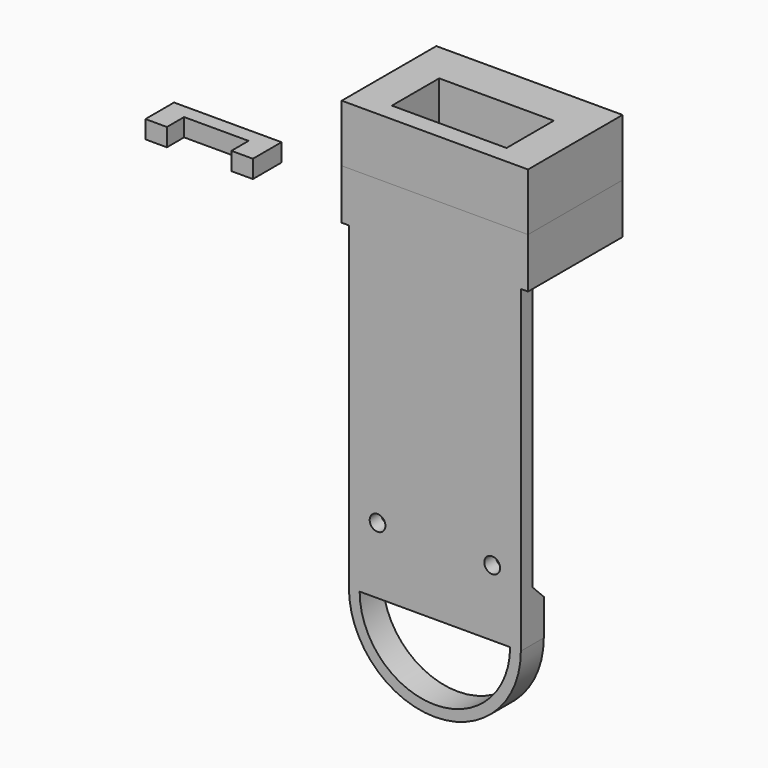
from build123d import *

# Parameters (mm, degrees)
BOX014_W          = 9
BOX014_H          = 3
BOX014_DEPTH      = 2.5
BOX013_W          = 15
BOX013_H          = 5
BOX013_DEPTH      = 2.5
CYLINDER001_R     = 1.1
CYLINDER001_DEPTH = 10
CYLINDER002_R     = 1.1
CYLINDER002_DEPTH = 10
BOX007_W          = 24
BOX007_H          = 2
BOX007_DEPTH      = 43.5
CYLINDER009_W     = 10.5
CYLINDER009_H     = 4
CYLINDER009_ANGLE = 180
CYLINDER008_W     = 12
CYLINDER008_H     = 4
CYLINDER008_ANGLE = 180
BOX011_W          = 24
BOX011_H          = 4
BOX011_DEPTH      = 7
CYLINDER006_R     = 2
CYLINDER006_DEPTH = 2
CYLINDER005_R     = 3.1
CYLINDER005_DEPTH = 2
BOX002_W          = 8
BOX002_H          = 3
BOX002_DEPTH      = 7
BOX003_W          = 10
BOX003_H          = 3
BOX003_DEPTH      = 7
FILLET001_R       = 1.45
BOX015_W          = 3.5
BOX015_H          = 3
BOX015_DEPTH      = 7
BOX_W             = 24
BOX_H             = 14.5
BOX_DEPTH         = 4
FILLET_R          = 2.5
BOX001_W          = 26
BOX001_H          = 16.5
BOX001_DEPTH      = 7
CHAMFER_SIZE      = 1.95
BOX012_W          = 22.5
BOX012_H          = 10.5
BOX012_DEPTH      = 1.25
BOX017_W          = 16
BOX017_H          = 8.25
BOX017_DEPTH      = 10
BOX004_W          = 22.5
BOX004_H          = 3
BOX004_DEPTH      = 3.5
CYLINDER007_R     = 1.4
CYLINDER007_DEPTH = 6
BOX005_W          = 26
BOX005_H          = 16.5
BOX005_DEPTH      = 8


with BuildPart() as obj1_support_inner:
    # Box014 → Box014 (new body)
    with BuildSketch(Plane(origin=(-27, 0, 0), x_dir=(1, 0, 0), z_dir=(0, 0, 1))):
        with Locations((4.5, 1.5)):
            Rectangle(BOX014_W, BOX014_H)
    extrude(amount=BOX014_DEPTH)


with BuildPart() as obj2:
    # Box013 → Box013 (new body)
    with BuildSketch(Plane(origin=(-30, 0, 0), x_dir=(1, 0, 0), z_dir=(0, 0, 1))):
        with Locations((7.5, 2.5)):
            Rectangle(BOX013_W, BOX013_H)
    extrude(amount=BOX013_DEPTH)

    # Cut007: cut obj1_support_inner)
    add(obj1_support_inner.part, mode=Mode.SUBTRACT)


with BuildPart() as cylinder001_right_bolt_clear:
    # Cylinder001 → Cylinder001 (new body)
    with BuildSketch(Plane(origin=(4, 0, -35.25), x_dir=(1, 0, 0), z_dir=(0, -1, 0))):
        Circle(CYLINDER001_R)
    extrude(amount=CYLINDER001_DEPTH)


with BuildPart() as fusion004:
    # Cylinder002 → Cylinder002 (new body)
    with BuildSketch(Plane(origin=(20, 0, -35.25), x_dir=(1, 0, 0), z_dir=(0, -1, 0))):
        Circle(CYLINDER002_R)
    extrude(amount=CYLINDER002_DEPTH)

    # Fusion004: union Cylinder001(right_bolt_clear)
    add(cylinder001_right_bolt_clear.part)


with BuildPart() as cut005:
    # Box007 → Box007 (new body)
    with BuildSketch(Plane(origin=(0, -2, -37.5), x_dir=(1, 0, 0), z_dir=(0, 0, 1))):
        with Locations((12, 1)):
            Rectangle(BOX007_W, BOX007_H)
    extrude(amount=BOX007_DEPTH)

    # Cut005: cut Fusion004
    add(fusion004.part, mode=Mode.SUBTRACT)


with BuildPart() as cylinder008_inner_hook:
    # Cylinder009 → Cylinder009 (revolve)
    with BuildSketch(Plane(origin=(12, 2, -44.5), x_dir=(-1, 0, 0), z_dir=(0, 0, 1))):
        with Locations((5.25, 2)):
            Rectangle(CYLINDER009_W, CYLINDER009_H)
    revolve(axis=Axis((12, 2, -44.5), (0, -1, 0)), revolution_arc=CYLINDER009_ANGLE)


with BuildPart() as cylinder008_outer_hook:
    # Cylinder008 → Cylinder008 (revolve)
    with BuildSketch(Plane(origin=(12, 2, -44.5), x_dir=(-1, 0, 0), z_dir=(0, 0, 1))):
        with Locations((6, 2)):
            Rectangle(CYLINDER008_W, CYLINDER008_H)
    revolve(axis=Axis((12, 2, -44.5), (0, -1, 0)), revolution_arc=CYLINDER008_ANGLE)


with BuildPart() as cut004:
    # Box011 → Box011 (new body)
    with BuildSketch(Plane(origin=(0, -2, -44.5), x_dir=(1, 0, 0), z_dir=(0, 0, 1))):
        with Locations((12, 2)):
            Rectangle(BOX011_W, BOX011_H)
    extrude(amount=BOX011_DEPTH)

    # Fusion008: union Cylinder008(outer_hook)
    add(cylinder008_outer_hook.part)

    # Cut004: cut Cylinder008(inner_hook)
    add(cylinder008_inner_hook.part, mode=Mode.SUBTRACT)


with BuildPart() as cylinder005_bolt_clear:
    # Cylinder006 → Cylinder006 (new body)
    with BuildSketch(Plane(origin=(12, 11, 5), x_dir=(1, 0, 0), z_dir=(0, 0, 1))):
        Circle(CYLINDER006_R)
    extrude(amount=CYLINDER006_DEPTH)


with BuildPart() as cylinder005_bolt_head:
    # Cylinder005 → Cylinder005 (new body)
    with BuildSketch(Plane(origin=(12, 11, 4), x_dir=(1, 0, 0), z_dir=(0, 0, 1))):
        Circle(CYLINDER005_R)
    extrude(amount=CYLINDER005_DEPTH)


with BuildPart() as cube_header_cutter_big:
    # Box002 → Box002 (new body)
    with BuildSketch(Plane(origin=(1.5, 0, 0), x_dir=(1, 0, 0), z_dir=(0, 0, 1))):
        with Locations((4, 1.5)):
            Rectangle(BOX002_W, BOX002_H)
    extrude(amount=BOX002_DEPTH)


with BuildPart() as fillet001:
    # Box003 → Box003 (new body)
    with BuildSketch(Plane(origin=(7, 5, 0), x_dir=(1, 0, 0), z_dir=(0, 0, 1))):
        with Locations((5, 1.5)):
            Rectangle(BOX003_W, BOX003_H)
    extrude(amount=BOX003_DEPTH)

    # Fillet001
    fillet001_edges = [fillet001.edges().sort_by_distance(p)[0] for p in [
        (7, 5, 3.5),
        (7, 8, 3.5),
        (17, 5, 3.5),
        (17, 8, 3.5),
    ]]
    fillet(fillet001_edges, radius=FILLET001_R)


with BuildPart() as fusion:
    # Box015 → Box015 (new body)
    with BuildSketch(Plane(origin=(16.5, 0, 0), x_dir=(1, 0, 0), z_dir=(0, 0, 1))):
        with Locations((1.75, 1.5)):
            Rectangle(BOX015_W, BOX015_H)
    extrude(amount=BOX015_DEPTH)

    # Fusion: union Cylinder005(bolt_clear), Cylinder005(bolt_head), Cube(header_cutter_big), Fillet001
    add(cylinder005_bolt_clear.part)
    add(cylinder005_bolt_head.part)
    add(cube_header_cutter_big.part)
    add(fillet001.part)


with BuildPart() as fillet_body:
    # Box → Box (new body)
    with BuildSketch(Plane.XY):
        with Locations((12, 7.25)):
            Rectangle(BOX_W, BOX_H)
    extrude(amount=BOX_DEPTH)

    # Fillet
    fillet_edges = [fillet_body.edges().sort_by_distance(p)[0] for p in [
        (0, 7.25, 4),
        (24, 7.25, 4),
    ]]
    fillet(fillet_edges, radius=FILLET_R)


with BuildPart() as chamfer_base:
    # Box001 → Box001 (new body)
    with BuildSketch(Plane(origin=(-1, -2, 0), x_dir=(1, 0, 0), z_dir=(0, 0, 1))):
        with Locations((13, 8.25)):
            Rectangle(BOX001_W, BOX001_H)
    extrude(amount=BOX001_DEPTH)

    # Cut: cut Fillet body
    add(fillet_body.part, mode=Mode.SUBTRACT)

    # Cut008: cut Fusion
    add(fusion.part, mode=Mode.SUBTRACT)

    # Fusion009: union Cut005, Cut004
    add(cut005.part)
    add(cut004.part)

    # Chamfer
    chamfer_edges = [chamfer_base.edges().sort_by_distance(p)[0] for p in [
        (12, 2, -37.5),
    ]]
    chamfer(chamfer_edges, length=CHAMFER_SIZE)


with BuildPart() as box012:
    # Box012 → Box012 (new body)
    with BuildSketch(Plane(origin=(0.75, 3, 7), x_dir=(1, 0, 0), z_dir=(0, 0, 1))):
        with Locations((11.25, 5.25)):
            Rectangle(BOX012_W, BOX012_H)
    extrude(amount=BOX012_DEPTH)


with BuildPart() as obj1:
    # Box017 → Box017 (new body)
    with BuildSketch(Plane(origin=(4, 0.5, 7), x_dir=(1, 0, 0), z_dir=(0, 0, 1))):
        with Locations((8, 4.125)):
            Rectangle(BOX017_W, BOX017_H)
    extrude(amount=BOX017_DEPTH)


with BuildPart() as cube_pcb_cut:
    # Box004 → Box004 (new body)
    with BuildSketch(Plane(origin=(0.75, 0, 7), x_dir=(1, 0, 0), z_dir=(0, 0, 1))):
        with Locations((11.25, 1.5)):
            Rectangle(BOX004_W, BOX004_H)
    extrude(amount=BOX004_DEPTH)


with BuildPart() as fusion010:
    # Cylinder007 → Cylinder007 (new body)
    with BuildSketch(Plane(origin=(12, 11, 7), x_dir=(1, 0, 0), z_dir=(0, 0, 1))):
        Circle(CYLINDER007_R)
    extrude(amount=CYLINDER007_DEPTH)

    # Fusion010: union Box012, obj1), Cube(pcb_cut)
    add(box012.part)
    add(obj1.part)
    add(cube_pcb_cut.part)


with BuildPart() as cut009_cover:
    # Box005 → Box005 (new body)
    with BuildSketch(Plane(origin=(-1, -2, 7), x_dir=(1, 0, 0), z_dir=(0, 0, 1))):
        with Locations((13, 8.25)):
            Rectangle(BOX005_W, BOX005_H)
    extrude(amount=BOX005_DEPTH)

    # Cut009: cut Fusion010
    add(fusion010.part, mode=Mode.SUBTRACT)


solid = Compound([obj2.part, chamfer_base.part, cut009_cover.part])
